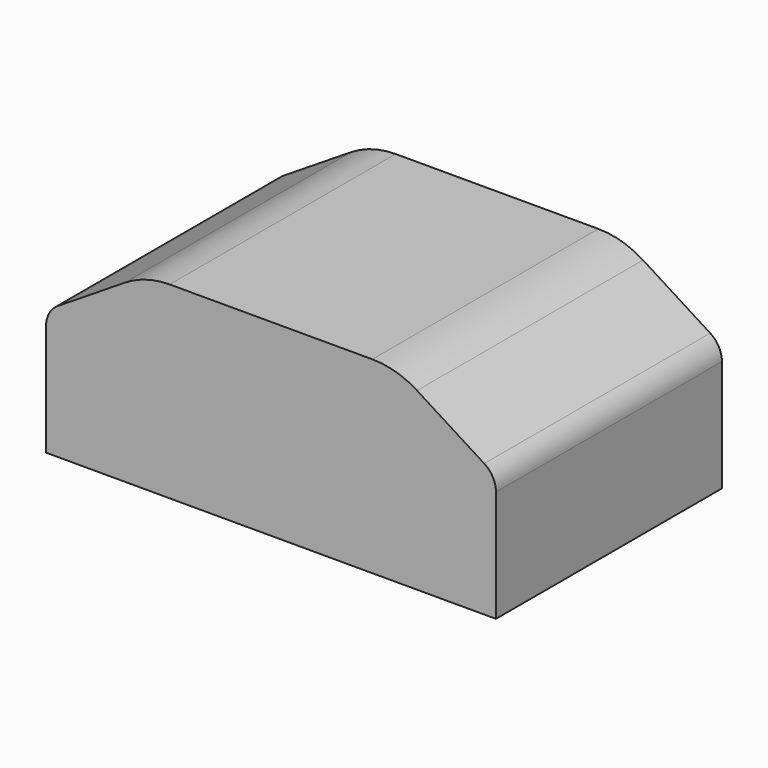
from build123d import *

# Parameters (mm, degrees)
F1_DEPTH = 85.725
F2_R     = 7.62
F3_R     = 25.4
F4_R     = 25.4
F5_R     = 7.62


with BuildPart() as f1:
    # F0 (on Front) → F1 (new body)
    with BuildSketch(Plane.XZ):
        Polygon((-68.2625, 0), (0, 0), (68.2625, 0), (68.2625, 38.1), (38.1, 57.15), (0, 57.15), (-38.1, 57.15), (-68.2625, 38.1), align=None)
    extrude(amount=F1_DEPTH)

    # F2
    f2_edges = [f1.edges().sort_by_distance(p)[0] for p in [
        (-68.2625, -42.8625, 38.1),
    ]]
    fillet(f2_edges, radius=F2_R)

    # F3
    f3_edges = [f1.edges().sort_by_distance(p)[0] for p in [
        (-38.1, -42.8625, 57.15),
    ]]
    fillet(f3_edges, radius=F3_R)

    # F4
    f4_edges = [f1.edges().sort_by_distance(p)[0] for p in [
        (38.1, -42.8625, 57.15),
    ]]
    fillet(f4_edges, radius=F4_R)

    # F5
    f5_edges = [f1.edges().sort_by_distance(p)[0] for p in [
        (68.2625, -42.8625, 38.1),
    ]]
    fillet(f5_edges, radius=F5_R)


solid = f1.part
